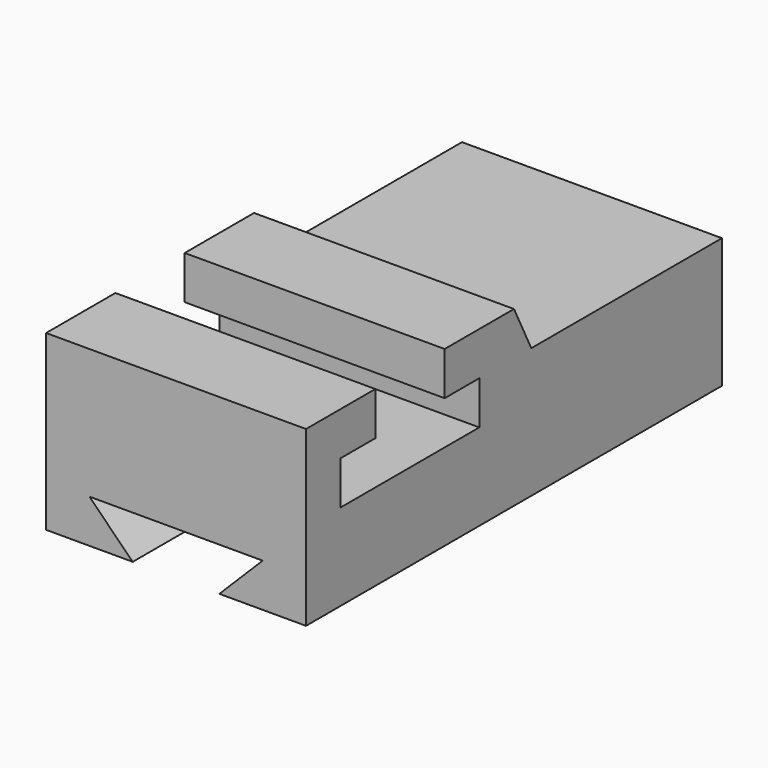
from build123d import *

# Parameters (mm, degrees)
F0_W     = 76.2
F0_H     = 50.8
F1_DEPTH = 152.4
F3_DEPTH = 76.2
F4_W     = 69.85
F4_H     = 12.7
F5_DEPTH = 76.2
F7_DEPTH = 152.4


with BuildPart() as f1:
    # F0 (on Front) → F1 (new body)
    with BuildSketch(Plane.XZ):
        with Locations((38.1, 25.4)):
            Rectangle(F0_W, F0_H)
    extrude(amount=-F1_DEPTH)

    # F2 (on face) → F3 (cut)
    with BuildSketch(Plane.YZ.offset(76.2)):
        Polygon((50.8, 50.8), (25.4, 50.8), (25.4, 38.1), (12.7, 38.1), (12.7, 25.4), (63.5, 25.4), (63.5, 38.1), (50.8, 38.1), align=None)
    extrude(amount=-F3_DEPTH, mode=Mode.SUBTRACT)

    # F4 (on face) → F5 (cut)
    with BuildSketch(Plane.YZ.offset(76.2)):
        Polygon((82.55, 38.1), (82.55, 50.8), (76.2, 50.8), align=None)
        with Locations((117.475, 44.45)):
            Rectangle(F4_W, F4_H)
    extrude(amount=-F5_DEPTH, mode=Mode.SUBTRACT)

    # F6 (on face) → F7 (cut)
    with BuildSketch(Plane(origin=(0, 152.4, 0), x_dir=(-1, 0, 0), z_dir=(0, 1, 0))):
        Polygon((-63.5, 12.7), (-50.8, 0), (-25.4, 0), (-12.7, 12.7), align=None)
    extrude(amount=-F7_DEPTH, mode=Mode.SUBTRACT)


solid = f1.part
